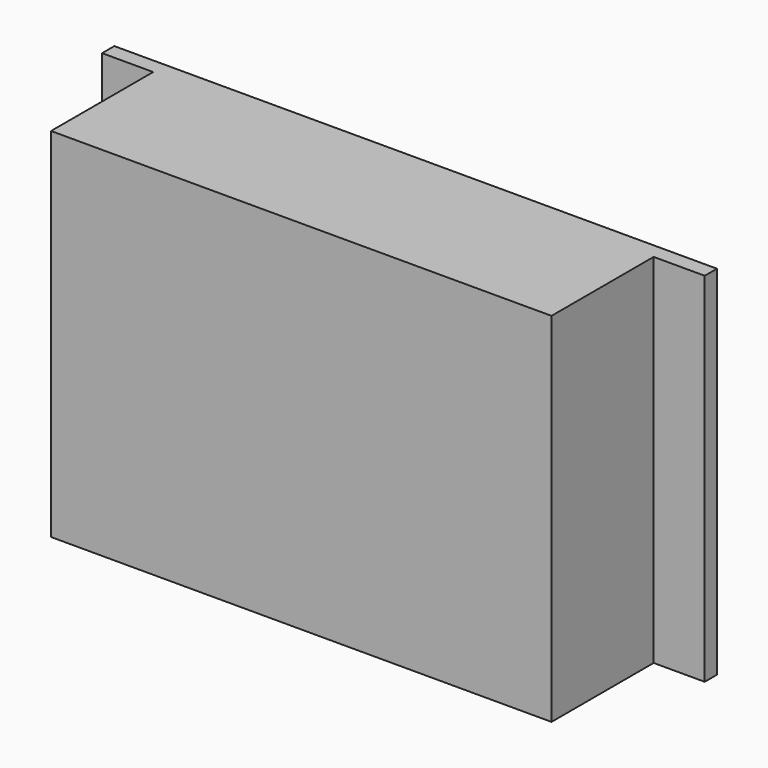
from build123d import *

# Parameters (mm, degrees)
F0_W     = 118
F0_H     = 70
F1_DEPTH = 28
F2_W     = 10
F2_H     = 70
F3_DEPTH = 25
F4_W     = 23.56403
F4_H     = 9.46647
F5_DEPTH = 5


with BuildPart() as f1:
    # F0 (on Front) → F1 (new body)
    with BuildSketch(Plane.XZ):
        Rectangle(F0_W, F0_H)
    extrude(amount=F1_DEPTH)

    # F2 (on face) → F3 (cut)
    with BuildSketch(Plane.XZ.offset(28)):
        with Locations((54, 0)):
            Rectangle(F2_W, F2_H)
        with Locations((-54, 0)):
            Rectangle(F2_W, F2_H)
    extrude(amount=-F3_DEPTH, mode=Mode.SUBTRACT)

    # F4 (on face) → F5 (join)
    with BuildSketch(Plane(origin=(0, 0, -35), x_dir=(1, 0, 0), z_dir=(0, 0, -1))):
        with BuildLine():
            Line((13.465698, 19.319981), (11.897889, 19.319981))
            ThreePointArc((11.897889, 19.319981), (7.407761, 17.460109), (5.547889, 12.969981))
            Line((5.547889, 12.969981), (5.547889, 11.602327))
            Line((5.547889, 11.602327), (19.815698, 11.602327))
            Line((19.815698, 11.602327), (19.815698, 12.969981))
            ThreePointArc((19.815698, 12.969981), (17.955826, 17.460109), (13.465698, 19.319981))
        make_face()
        with Locations((-19.718742, 14.927268)):
            Rectangle(F4_W, F4_H)
    extrude(amount=F5_DEPTH)


solid = f1.part
